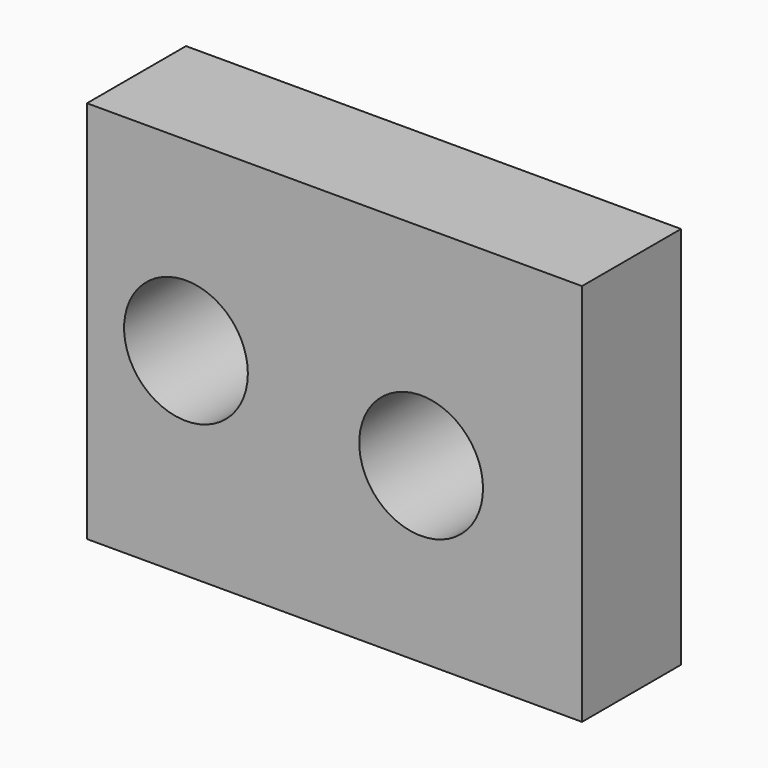
from build123d import *

# Parameters (mm, degrees)
F0_W     = 20
F0_H     = 15.5
F1_DEPTH = 5
F2_R     = 2.5
F3_DEPTH = 25
F4_DEPTH = 25


with BuildPart() as f1:
    # F0 (on Front) → F1 (new body)
    with BuildSketch(Plane.XZ):
        Rectangle(F0_W, F0_H)
    extrude(amount=F1_DEPTH)

    # F2 (on face) → F3 (cut)
    with BuildSketch(Plane.XZ.offset(5)):
        with Locations((-6, 0.25)):
            Circle(F2_R)
    extrude(amount=-F3_DEPTH, mode=Mode.SUBTRACT)

    # F2 (on face) → F4 (cut)
    with BuildSketch(Plane.XZ.offset(5)):
        with Locations((3.5, -0.75)):
            Circle(F2_R)
    extrude(amount=-F4_DEPTH, mode=Mode.SUBTRACT)


solid = f1.part
